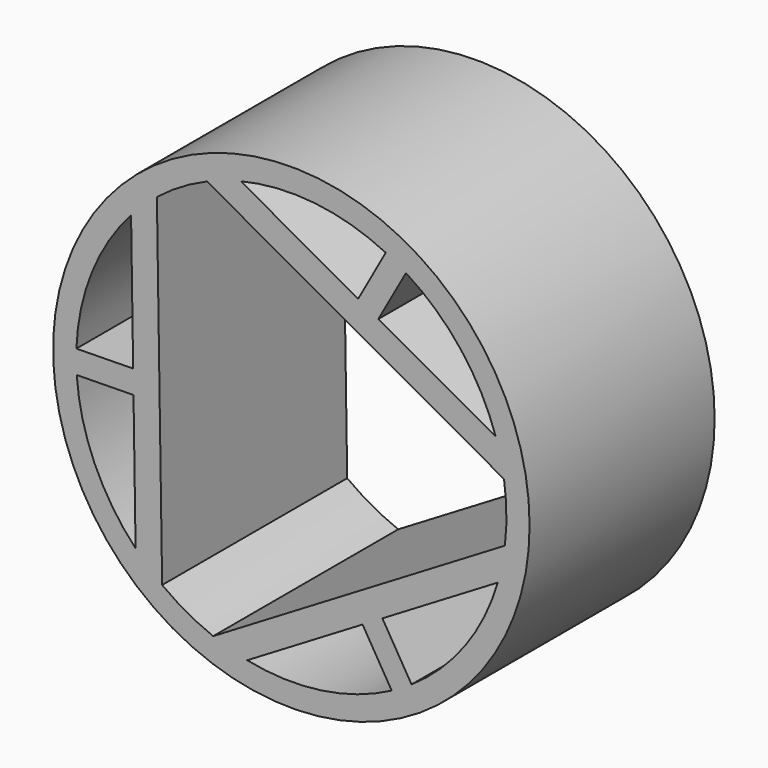
from build123d import *

# Parameters (mm, degrees)
F0_R     = 13.081
F1_DEPTH = 12.7


with BuildPart() as f1:
    # F0 (on Front) → F1 (new body)
    with BuildSketch(Plane.XZ):
        Circle(F0_R)
        with BuildLine():
            Line((-11.782692, -0.817253), (-8.666367, -0.76907))
            Line((-8.666367, -0.76907), (-8.552309, -8.146026))
            ThreePointArc((-8.552309, -8.146026), (-10.807673, -4.763815), (-11.782692, -0.817253))
        make_face(mode=Mode.SUBTRACT)
        with BuildLine():
            ThreePointArc((5.509203, -10.447411), (1.640638, -11.696496), (-2.422288, -11.559941))
            Line((-2.422288, -11.559941), (3.909314, -7.772686))
            Line((3.909314, -7.772686), (5.509203, -10.447411))
        make_face(mode=Mode.SUBTRACT)
        with BuildLine():
            Line((6.599107, -9.795484), (4.999218, -7.120759))
            Line((4.999218, -7.120759), (11.33082, -3.333504))
            ThreePointArc((11.33082, -3.333504), (9.529421, -6.977812), (6.599107, -9.795484))
        make_face(mode=Mode.SUBTRACT)
        with BuildLine():
            ThreePointArc((11.675552, 1.783592), (11.809589, 0.182593), (11.725112, -1.421785))
            Line((11.725112, -1.421785), (-4.29314, -11.003121))
            ThreePointArc((-4.29314, -11.003121), (-5.746664, -10.3187), (-7.093858, -9.443352))
            Line((-7.093858, -9.443352), (-7.382412, 9.219529))
            ThreePointArc((-7.382412, 9.219529), (-6.062924, 10.136107), (-4.631254, 10.865137))
            Line((-4.631254, 10.865137), (11.675552, 1.783592))
        make_face(mode=Mode.SUBTRACT)
        with BuildLine():
            ThreePointArc((-11.802325, 0.452596), (-10.949782, 4.427414), (-8.800058, 7.877734))
            Line((-8.800058, 7.877734), (-8.686, 0.500778))
            Line((-8.686, 0.500778), (-11.802325, 0.452596))
        make_face(mode=Mode.SUBTRACT)
        with BuildLine():
            Line((5.183584, 10.612737), (3.667149, 7.889829))
            Line((3.667149, 7.889829), (-2.778511, 11.47953))
            ThreePointArc((-2.778511, 11.47953), (1.278252, 11.741627), (5.183584, 10.612737))
        make_face(mode=Mode.SUBTRACT)
        with BuildLine():
            ThreePointArc((6.293122, 9.994816), (9.309144, 7.269082), (11.222347, 3.682207))
            Line((11.222347, 3.682207), (4.776687, 7.271908))
            Line((4.776687, 7.271908), (6.293122, 9.994816))
        make_face(mode=Mode.SUBTRACT)
    extrude(amount=F1_DEPTH)


solid = f1.part
